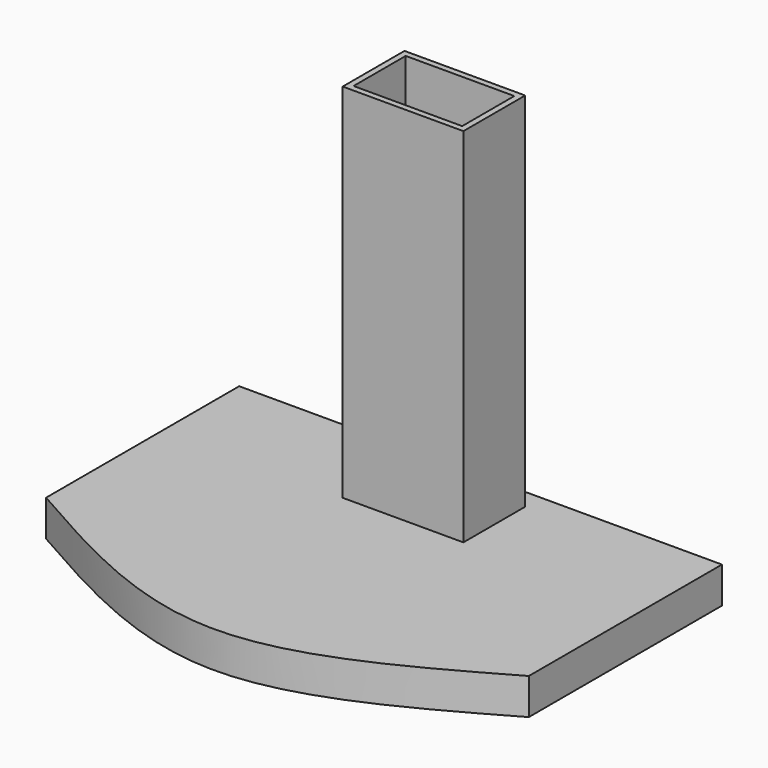
from build123d import *

# Parameters (mm, degrees)
F1_DEPTH = 15
F2_W     = 50
F2_H     = 32
F3_DEPTH = 150
F4_T     = -2.5


with BuildPart() as f1:
    # F0 (on Top) → F1 (new body)
    with BuildSketch(Plane.XY):
        with BuildLine():
            Line((100, 50), (-100, 50))
            Line((-100, 50), (-100, -50))
            add(Edge.make_bspline(
                [(-100, -50), (-66.6666666667, -68.9898259938), (0, -106.9694779813), (66.6666666667, -68.9898259938), (100, -50)],
                knots=[0, 0, 0, 0, 0.5, 1, 1, 1, 1], degree=3))
            Line((100, -50), (100, 50))
        make_face()
    extrude(amount=F1_DEPTH)

    # F2 (on face) → F3 (join)
    with BuildSketch(Plane.XY.offset(15)):
        with Locations((0, 25.8605617276)):
            Rectangle(F2_W, F2_H)
    extrude(amount=F3_DEPTH)

    # F4
    f4_openings = [f1.faces().sort_by_distance(p)[0] for p in [
        (0, 25.860562, 165),
    ]]
    offset(amount=F4_T, openings=f4_openings, kind=Kind.INTERSECTION)


solid = f1.part
